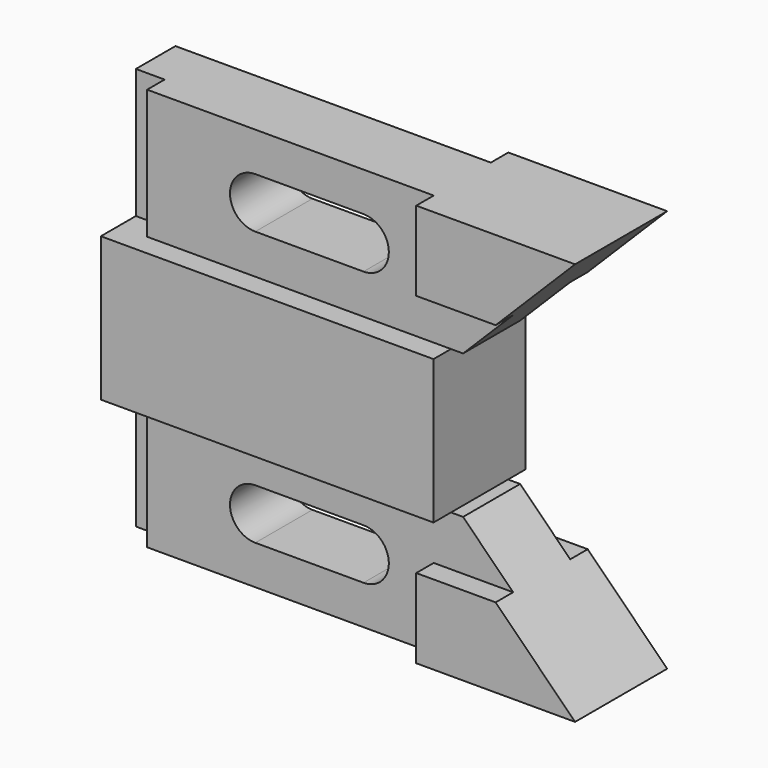
from build123d import *

# Parameters (mm, degrees)
F1_DEPTH = 7.874
F2_DEPTH = 12.7
F0_W     = 73.406
F0_H     = 15.875
F3_DEPTH = 12.7
F4_W     = 6.35
F4_H     = 28.575
F5_DEPTH = 4.826


with BuildPart() as f1:
    # F0 (on Front) → F1 (new body, symmetric)
    with BuildSketch(Plane.XZ):
        Polygon((0, 44.45), (0, 15.875), (73.406, 15.875), (76.073, 15.875), (87.122, 26.924), (69.596, 26.924), (69.596, 44.45), align=None)
        with BuildLine():
            ThreePointArc((30.226, 24.638), (24.638, 30.226), (30.226, 35.814))
            Line((30.226, 35.814), (54.102, 35.814))
            ThreePointArc((54.102, 35.814), (59.69, 30.226), (54.102, 24.638))
            Line((54.102, 24.638), (30.226, 24.638))
        make_face(mode=Mode.SUBTRACT)
    extrude(amount=F1_DEPTH, both=True)

    # F0 (on Front) → F2 (join, symmetric)
    with BuildSketch(Plane.XZ):
        Polygon((104.648, 44.45), (69.596, 44.45), (69.596, 26.924), (87.122, 26.924), align=None)
    extrude(amount=F2_DEPTH, both=True)

    # F0 (on Front) → F3 (join, symmetric)
    with BuildSketch(Plane.XZ):
        with Locations((36.703, 7.9375)):
            Rectangle(F0_W, F0_H)
    extrude(amount=F3_DEPTH, both=True)

    # F4 (on face) → F5 (cut)
    with BuildSketch(Plane.XZ.offset(7.874)):
        with Locations((3.175, 30.1625)):
            Rectangle(F4_W, F4_H)
    extrude(amount=-F5_DEPTH, mode=Mode.SUBTRACT)

    # F6: F1 across plane


with BuildPart() as f1_1:
    add(f1.part)
    add(f1.part.mirror(Plane.XY))


solid = f1_1.part
